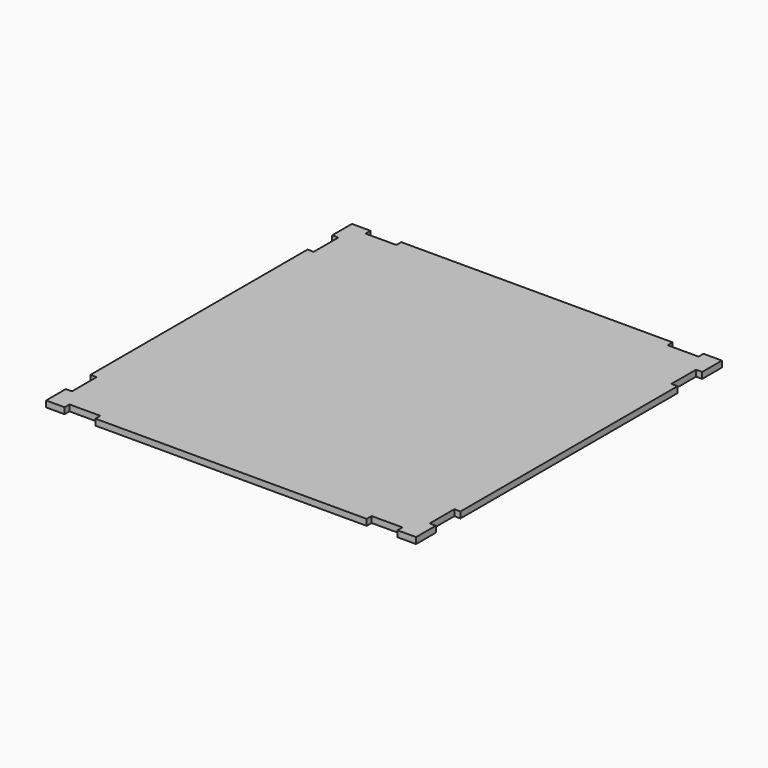
from build123d import *

# Parameters (mm, degrees)
F1_DEPTH = 2.54


with BuildPart() as f1:
    # F0 (on Top) → F1 (new body)
    with BuildSketch(Plane.XY):
        Polygon((76.2, 68.58), (76.2, 76.2), (76.2, 78.74), (68.58, 78.74), (68.58, 76.2), (55.88, 76.2), (55.88, 78.74), (-55.88, 78.74), (-55.88, 76.2), (-68.58, 76.2), (-68.58, 78.74), (-76.2, 78.74), (-76.2, 76.2), (-76.2, 68.58), (-73.66, 68.58), (-73.66, 55.88), (-76.2, 55.88), (-76.2, -55.88), (-73.66, -55.88), (-73.66, -68.58), (-76.2, -68.58), (-76.2, -76.2), (-76.2, -78.74), (-68.58, -78.74), (-68.58, -76.2), (-55.88, -76.2), (-55.88, -78.74), (55.88, -78.74), (55.88, -76.2), (68.58, -76.2), (68.58, -78.74), (76.2, -78.74), (76.2, -76.2), (76.2, -68.58), (73.66, -68.58), (73.66, -55.88), (76.2, -55.88), (76.2, 55.88), (73.66, 55.88), (73.66, 68.58), align=None)
    extrude(amount=F1_DEPTH)


solid = f1.part
